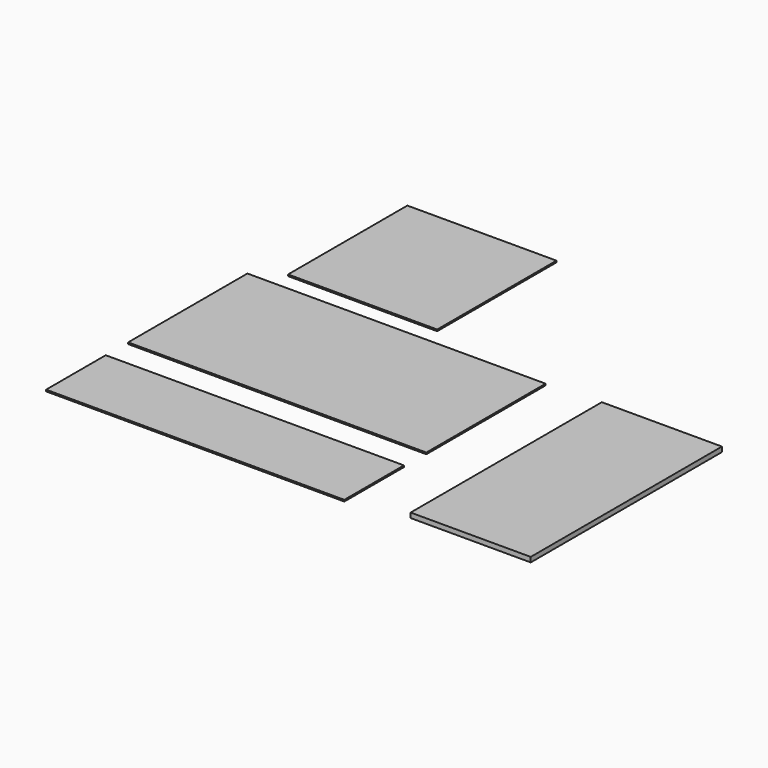
from build123d import *

# Parameters (mm, degrees)
F0_W     = 2438.4
F0_H     = 1219.2
F0_W_2   = 1219.2
F1_DEPTH = 12.7
F2_W     = 2438.4
F2_H     = 609.6
F3_DEPTH = 12.7
F4_W     = 982
F4_H     = 1954
F5_DEPTH = 40


with BuildPart() as f1:
    # F0 (on Top) → F1 (new body)
    with BuildSketch(Plane.XY):
        with Locations((218.109624, -9.320994)):
            Rectangle(F0_W, F0_H)
        with Locations((-180.961005, 1362.236373)):
            Rectangle(F0_W_2, F0_H)
    extrude(amount=F1_DEPTH)


with BuildPart() as f3:
    # F2 (on Top) → F3 (new body)
    with BuildSketch(Plane.XY):
        with Locations((217.591166, -1151.936)):
            Rectangle(F2_W, F2_H)
    extrude(amount=F3_DEPTH)


with BuildPart() as f5:
    # F4 (on face) → F5 (new body)
    with BuildSketch(Plane(origin=(0, 0, 0), x_dir=(1, 0, 0), z_dir=(0, 0, -1))):
        with Locations((2353.133253, 333.46183)):
            Rectangle(F4_W, F4_H)
    extrude(amount=F5_DEPTH)


solid = Compound([f1.part, f3.part, f5.part])
